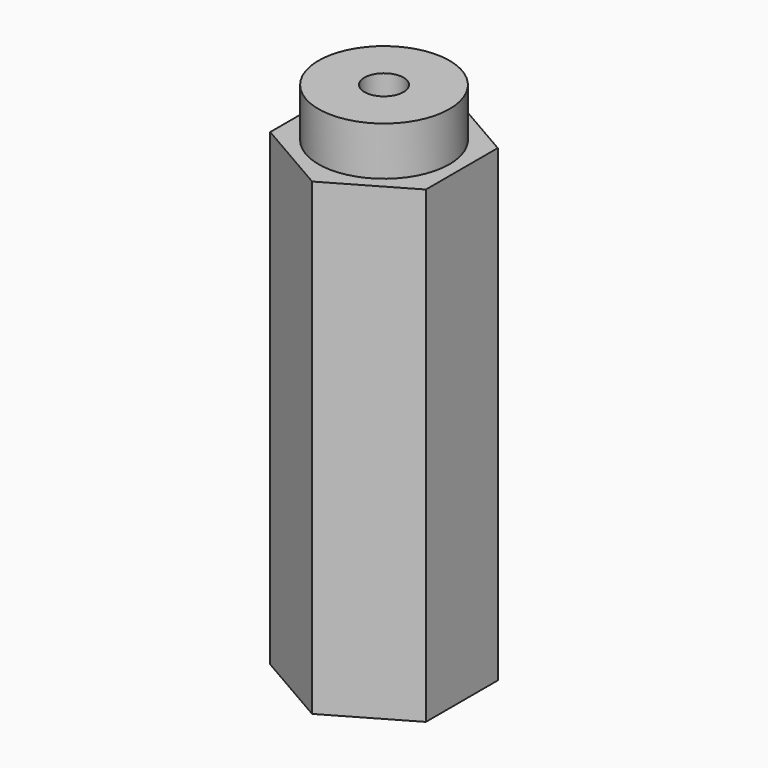
from build123d import *

# Parameters (mm, degrees)
F1_DEPTH = 52.64
F2_R     = 7.36
F3_DEPTH = 5.46
F5_D     = 4.4


with BuildPart() as f1:
    # F0 (on Top) → F1 (new body)
    with BuildSketch(Plane.XY):
        Polygon((8.74, -5.0460413527), (8.74, 5.0460413527), (0, 10.0920827054), (-8.74, 5.0460413527), (-8.74, -5.0460413527), (0, -10.0920827054), align=None)
    extrude(amount=-F1_DEPTH)


with BuildPart() as f3:
    # F2 (on Top) → F3 (new body)
    with BuildSketch(Plane.XY):
        Circle(F2_R)
    extrude(amount=F3_DEPTH)

    # F5 (through all)
    with Locations(Plane(origin=(0, 0, 0), x_dir=(1, 0, 0), z_dir=(0, 0, -1))):
        with Locations((0, 0)):
            Hole(F5_D / 2)


solid = Compound([f1.part, f3.part])
